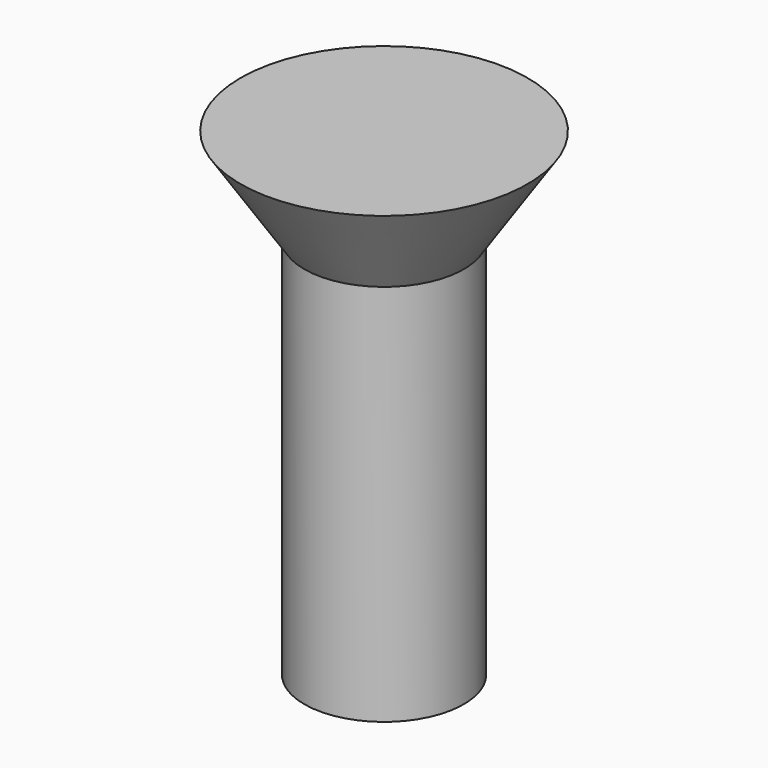
from build123d import *

# Parameters (mm, degrees)
CYLINDER010_R                = 2.5
CYLINDER010_DEPTH            = 12
FUSION001018_PLACEMENT_ANGLE = 180


with BuildPart() as cone002:
    # Cone002 → Cone002 (revolve)
    with BuildSketch(Plane(origin=(0, 0, -3), x_dir=(1, 0, 0), z_dir=(0, -1, 0))):
        Polygon((0, 0), (4.5, 0), (2.5, 3), (0, 3), align=None)
    revolve(axis=Axis((0, 0, -3), (0, 0, 1)))


with BuildPart() as obj1:
    # Cylinder010 → Cylinder010 (new body)
    with BuildSketch(Plane.XY):
        Circle(CYLINDER010_R)
    extrude(amount=CYLINDER010_DEPTH)

    # Fusion001018: union Cone002
    add(cone002.part)


with BuildPart() as obj1_1:
    # Fusion001018 placement: moved
    add(obj1.part.moved(Location((45, 15, 21))).rotate(Axis((45, 15, 21), (0, 1, 0)), FUSION001018_PLACEMENT_ANGLE))


solid = obj1_1.part
